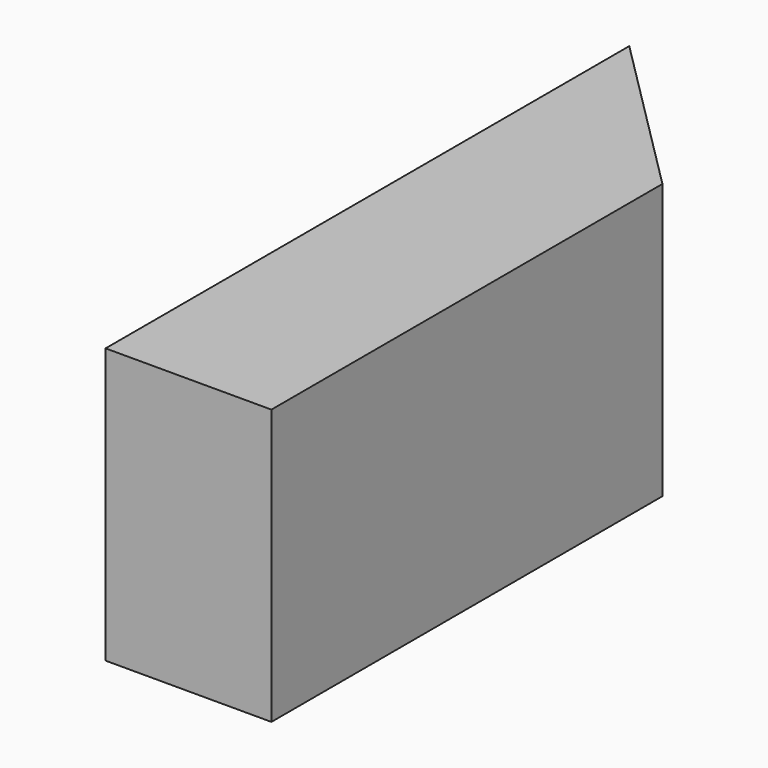
from build123d import *

# Parameters (mm, degrees)
F1_DEPTH = 63
F2_R     = 8.5
F3_DEPTH = 19


with BuildPart() as f1:
    # F0 (on Top) → F1 (new body)
    with BuildSketch(Plane.XY):
        Polygon((-38, 0), (0, 0), (0, 112), (-38, 150), align=None)
    extrude(amount=F1_DEPTH)

    # F2 (on face) → F3 (cut)
    with BuildSketch(Plane(origin=(-38, 0, 0), x_dir=(0, -1, 0), z_dir=(-1, 0, 0))):
        with Locations((-25, 17)):
            Circle(F2_R)
    extrude(amount=-F3_DEPTH, mode=Mode.SUBTRACT)


solid = f1.part
